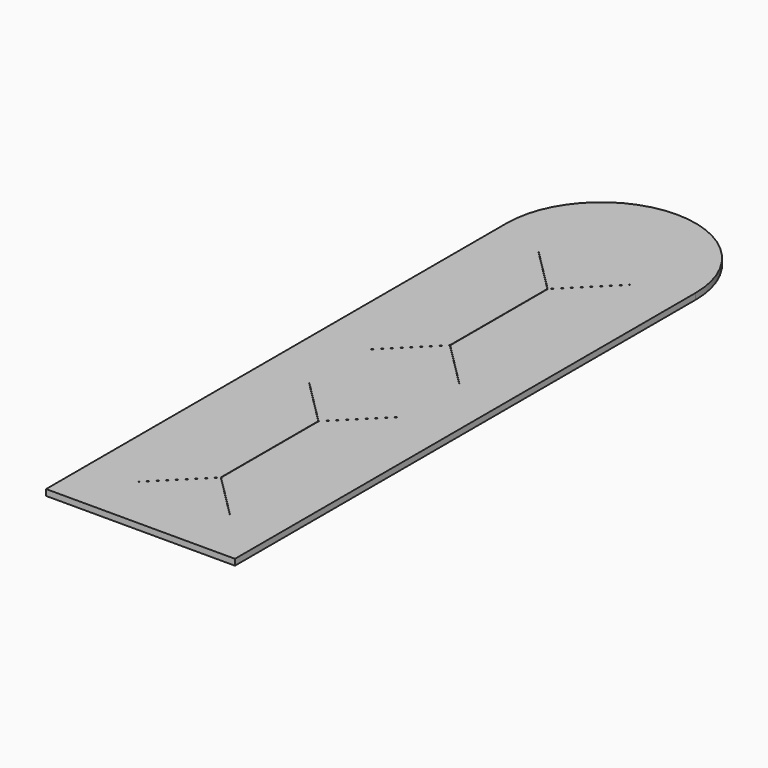
from build123d import *

# Parameters (mm, degrees)
F1_DEPTH = 1
F3_DEPTH = 25


with BuildPart() as f1:
    # F0 (on Top) → F1 (new body)
    with BuildSketch(Plane.XY):
        with BuildLine():
            Line((0, 94.5), (0, 0))
            Line((0, 0), (31, 0))
            Line((31, 0), (31, 94.5))
            ThreePointArc((31, 94.5), (15.5, 110), (0, 94.5))
        make_face()
    extrude(amount=F1_DEPTH)

    # F2 (on face) → F3 (cut)
    with BuildSketch(Plane.XY.offset(1)):
        with BuildLine():
            ThreePointArc((8, 43.975), (8.017678, 43.982322), (8.025, 44))
            ThreePointArc((8.025, 44), (7.982322, 44.017678), (8, 43.975))
        make_face()
        with BuildLine():
            Line((15.5, 36.525), (8.025, 44))
            ThreePointArc((8.025, 44), (8.017678, 43.982322), (8, 43.975))
            Line((8, 43.975), (15.475, 36.5))
            Line((15.475, 36.5), (15.475, 16.5))
            Line((15.475, 16.5), (8, 9.025))
            ThreePointArc((8, 9.025), (8.017678, 9.017678), (8.025, 9))
            Line((8.025, 9), (15.5, 16.475))
            Line((15.5, 16.475), (22.975, 9))
            ThreePointArc((22.975, 9), (22.982322, 9.017678), (23, 9.025))
            Line((23, 9.025), (15.525, 16.5))
            Line((15.525, 16.5), (15.525, 36.5))
            Line((15.525, 36.5), (23, 43.975))
            ThreePointArc((23, 43.975), (22.982322, 43.982322), (22.975, 44))
            Line((22.975, 44), (15.5, 36.525))
        make_face()
        with BuildLine():
            ThreePointArc((23.025, 44), (23, 44.025), (22.975, 44))
            ThreePointArc((22.975, 44), (22.982322, 43.982322), (23, 43.975))
            ThreePointArc((23, 43.975), (23.017678, 43.982322), (23.025, 44))
        make_face()
        with BuildLine():
            ThreePointArc((8.025, 9), (8.017678, 9.017678), (8, 9.025))
            ThreePointArc((8, 9.025), (7.982322, 8.982322), (8.025, 9))
        make_face()
        with BuildLine():
            ThreePointArc((23.025, 9), (23.017678, 9.017678), (23, 9.025))
            ThreePointArc((23, 9.025), (22.982322, 9.017678), (22.975, 9))
            ThreePointArc((22.975, 9), (23, 8.975), (23.025, 9))
        make_face()
        with BuildLine():
            Line((8, 90.975), (15.475, 83.5))
            Line((15.475, 83.5), (15.475, 63.5))
            Line((15.475, 63.5), (8, 56.025))
            ThreePointArc((8, 56.025), (8.017678, 56.017678), (8.025, 56))
            Line((8.025, 56), (15.5, 63.475))
            Line((15.5, 63.475), (22.975, 56))
            ThreePointArc((22.975, 56), (22.982322, 56.017678), (23, 56.025))
            Line((23, 56.025), (15.525, 63.5))
            Line((15.525, 63.5), (15.525, 83.5))
            Line((15.525, 83.5), (23, 90.975))
            ThreePointArc((23, 90.975), (22.982322, 90.982322), (22.975, 91))
            Line((22.975, 91), (15.5, 83.525))
            Line((15.5, 83.525), (8.025, 91))
            ThreePointArc((8.025, 91), (8.017678, 90.982322), (8, 90.975))
        make_face()
        with BuildLine():
            ThreePointArc((8.025, 91), (7.982322, 91.017678), (8, 90.975))
            ThreePointArc((8, 90.975), (8.017678, 90.982322), (8.025, 91))
        make_face()
        with BuildLine():
            ThreePointArc((8.025, 56), (8.017678, 56.017678), (8, 56.025))
            ThreePointArc((8, 56.025), (7.982322, 55.982322), (8.025, 56))
        make_face()
        with BuildLine():
            ThreePointArc((23.025, 91), (23, 91.025), (22.975, 91))
            ThreePointArc((22.975, 91), (22.982322, 90.982322), (23, 90.975))
            ThreePointArc((23, 90.975), (23.017678, 90.982322), (23.025, 91))
        make_face()
        with BuildLine():
            ThreePointArc((23, 56.025), (22.982322, 56.017678), (22.975, 56))
            ThreePointArc((22.975, 56), (23, 55.975), (23.025, 56))
            ThreePointArc((23.025, 56), (23.017678, 56.017678), (23, 56.025))
        make_face()
    extrude(amount=-F3_DEPTH, mode=Mode.SUBTRACT)


solid = f1.part
